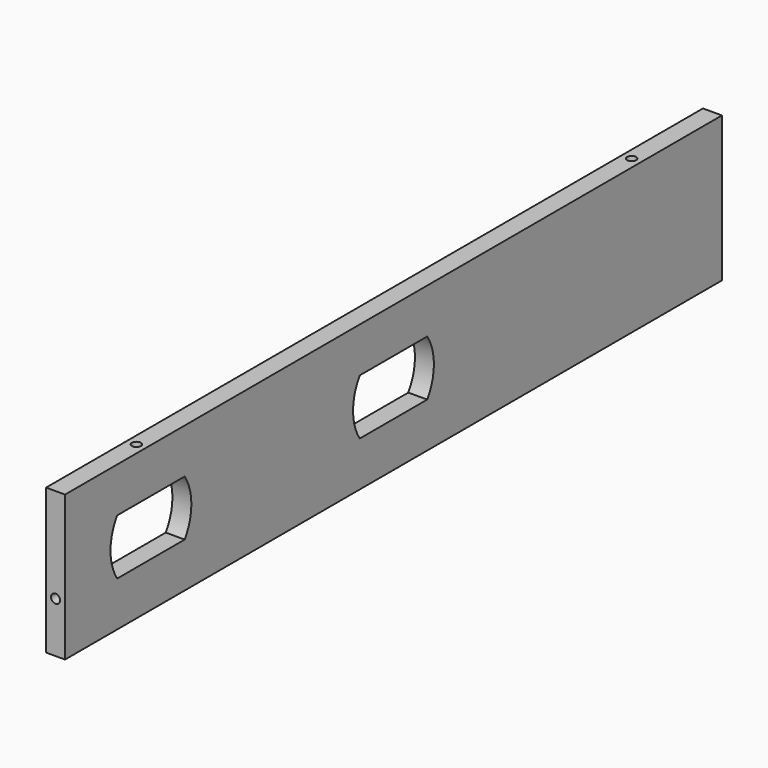
from build123d import *

# Parameters (mm, degrees)
F0_W           = 206.375
F0_H           = 36.5125
F1_DEPTH       = 4.7625
F5_D           = 2.2606
F5_DEPTH       = 14.61135
F5_TIP         = 0.6791527577
F5_ON_F3_D     = 2.2606
F5_ON_F3_DEPTH = 14.61135
F5_ON_F3_TIP   = 0.6791527577
F5_ON_F2_D     = 2.2606
F5_ON_F2_DEPTH = 14.61135
F5_ON_F2_TIP   = 0.6791527577
F7_DEPTH       = 25.4


with BuildPart() as f1:
    # F0 (on Right) → F1 (new body)
    with BuildSketch(Plane.YZ):
        Rectangle(F0_W, F0_H)
    extrude(amount=F1_DEPTH)

    # F5
    with Locations(Plane.XY.offset(18.25625)):
        with Locations((2.38125, -77.7875), (2.38125, 77.7875)):
            Hole(F5_D / 2, depth=F5_DEPTH)
            with Locations((0, 0, -(F5_DEPTH + F5_TIP / 2))):  # 118° drill point
                Cone(0, F5_D / 2, F5_TIP, mode=Mode.SUBTRACT)

    # F5 on F3
    with Locations(Plane.XZ.offset(103.1875)):
        with Locations((2.38125, -5.55625)):
            Hole(F5_ON_F3_D / 2, depth=F5_ON_F3_DEPTH)
            with Locations((0, 0, -(F5_ON_F3_DEPTH + F5_ON_F3_TIP / 2))):  # 118° drill point
                Cone(0, F5_ON_F3_D / 2, F5_ON_F3_TIP, mode=Mode.SUBTRACT)

    # F5 on F2
    with Locations(Plane(origin=(0, 103.1875, 0), x_dir=(-1, 0, 0), z_dir=(0, 1, 0))):
        with Locations((-2.38125, -5.55625)):
            Hole(F5_ON_F2_D / 2, depth=F5_ON_F2_DEPTH)
            with Locations((0, 0, -(F5_ON_F2_DEPTH + F5_ON_F2_TIP / 2))):  # 118° drill point
                Cone(0, F5_ON_F2_D / 2, F5_ON_F2_TIP, mode=Mode.SUBTRACT)

    # F6 (on face) → F7 (cut)
    with BuildSketch(Plane.YZ.offset(4.7625)):
        with BuildLine():
            Line((-65.5934088888, 6.985), (-86.8065911112, 6.985))
            ThreePointArc((-86.8065911112, 6.985), (-88.9, 0), (-86.8065911112, -6.985))
            Line((-86.8065911112, -6.985), (-65.5934088888, -6.985))
            ThreePointArc((-65.5934088888, -6.985), (-63.5, 0), (-65.5934088888, 6.985))
        make_face()
        with BuildLine():
            ThreePointArc((10.6065911112, -6.985), (12.7, 0), (10.6065911112, 6.985))
            Line((10.6065911112, 6.985), (-10.6065911112, 6.985))
            ThreePointArc((-10.6065911112, 6.985), (-12.7, 0), (-10.6065911112, -6.985))
            Line((-10.6065911112, -6.985), (10.6065911112, -6.985))
        make_face()
    extrude(amount=-F7_DEPTH, mode=Mode.SUBTRACT)


solid = f1.part
